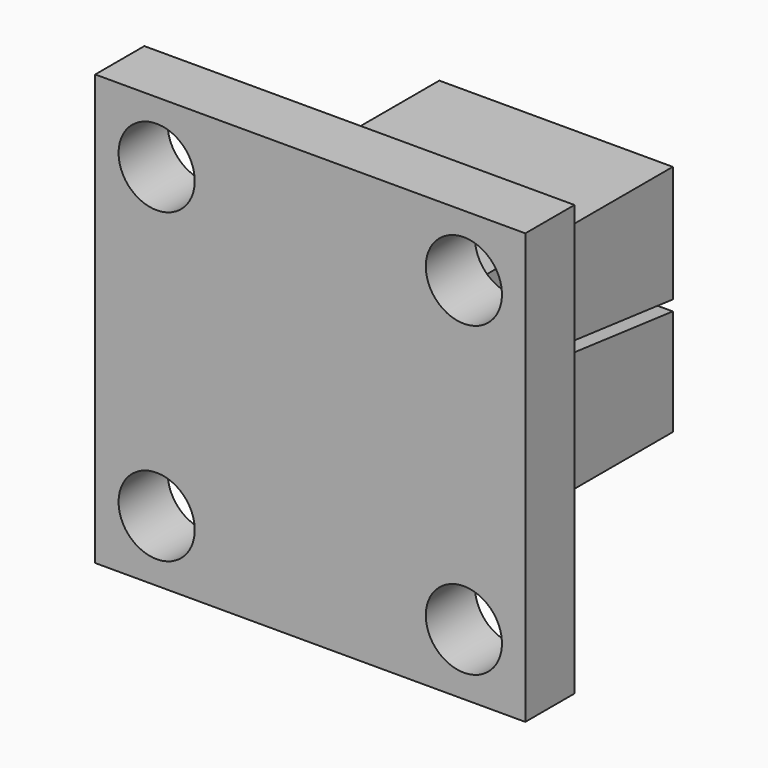
from build123d import *

# Parameters (mm, degrees)
F0_W     = 35
F0_H     = 35
F1_DEPTH = 5
F2_R     = 3.1
F3_DEPTH = 5.001
F4_W     = 19
F4_H     = 19
F5_DEPTH = 20
F7_DEPTH = 35


with BuildPart() as f1:
    # F0 (on Front) → F1 (new body)
    with BuildSketch(Plane.XZ):
        with Locations((0.559466, -17.5)):
            Rectangle(F0_W, F0_H)
    extrude(amount=F1_DEPTH)

    # F2 (on face) → F3 (cut, through all)
    with BuildSketch(Plane(origin=(0, 0, 0), x_dir=(-1, 0, 0), z_dir=(0, 1, 0))):
        with Locations((-13.059466, -5)):
            Circle(F2_R)
        with Locations((11.940534, -5)):
            Circle(F2_R)
        with Locations((-13.059466, -30)):
            Circle(F2_R)
        with Locations((11.940534, -30)):
            Circle(F2_R)
    extrude(amount=-F3_DEPTH, mode=Mode.SUBTRACT)

    # F4 (on face) → F5 (join)
    with BuildSketch(Plane(origin=(0, 0, 0), x_dir=(-1, 0, 0), z_dir=(0, 1, 0))):
        with Locations((-0.559466, -17.5)):
            Rectangle(F4_W, F4_H)
    extrude(amount=F5_DEPTH)

    # F6 (on face) → F7 (cut)
    with BuildSketch(Plane.YZ.offset(10.059466)):
        Polygon((20, -18.355448), (20, -17.5), (8.076428, -16.147804), (8.076428, -17.003253), align=None)
    extrude(amount=-F7_DEPTH, mode=Mode.SUBTRACT)


solid = f1.part
